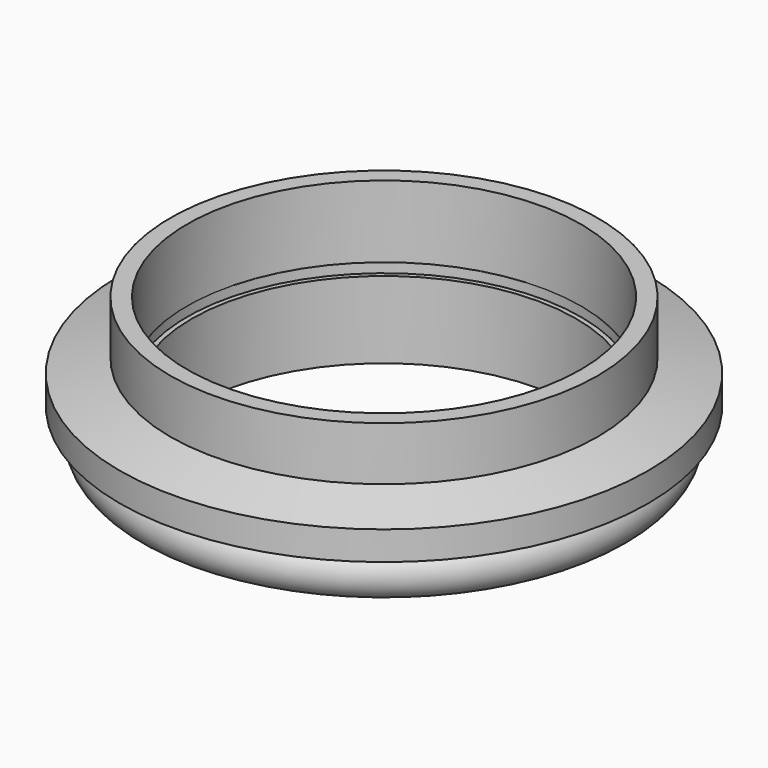
from build123d import *

# Parameters (mm, degrees)
CYLINDER003_R     = 20.5
CYLINDER003_DEPTH = 10
CYLINDER002_R     = 20.6
CYLINDER002_DEPTH = 2.5
CYLINDER_R        = 27.5
CYLINDER_DEPTH    = 3
CYLINDER001_R     = 22.25
CYLINDER001_DEPTH = 10
TORUS_R           = 2.5
CYLINDER005_R     = 20
CYLINDER005_DEPTH = 8
TORUS001_R        = 2.5
CYLINDER004_R     = 20.5
CYLINDER004_DEPTH = 8
CYLINDER006_R     = 24
CYLINDER006_DEPTH = 3.9


with BuildPart() as cylinder003:
    # Cylinder003 → Cylinder003 (new body)
    with BuildSketch(Plane.XY):
        Circle(CYLINDER003_R)
    extrude(amount=CYLINDER003_DEPTH)


with BuildPart() as fusion001:
    # Cylinder002 → Cylinder002 (new body)
    with BuildSketch(Plane.XY):
        Circle(CYLINDER002_R)
    extrude(amount=CYLINDER002_DEPTH)

    # Fusion001: union Cylinder003
    add(cylinder003.part)


with BuildPart() as cylinder:
    # Cylinder → Cylinder (new body)
    with BuildSketch(Plane.XY):
        Circle(CYLINDER_R)
    extrude(amount=CYLINDER_DEPTH)


with BuildPart() as cone:
    # Cone → Cone (revolve)
    with BuildSketch(Plane(origin=(0, 0, 3), x_dir=(1, 0, 0), z_dir=(0, -1, 0))):
        Polygon((0, 0), (27.5, 0), (22.25, 1.406733), (0, 1.406733), align=None)
    revolve(axis=Axis((0, 0, 3), (0, 0, 1)))


with BuildPart() as coupler:
    # Cylinder001 → Cylinder001 (new body)
    with BuildSketch(Plane.XY):
        Circle(CYLINDER001_R)
    extrude(amount=CYLINDER001_DEPTH)

    # Fusion: union Cylinder, Cone
    add(cylinder.part)
    add(cone.part)

    # Cut: cut Fusion001
    add(fusion001.part, mode=Mode.SUBTRACT)


with BuildPart() as oring:
    # Torus → Torus (revolve)
    with BuildSketch(Plane(origin=(0, 0, -2.5), x_dir=(1, 0, 0), z_dir=(0, -1, 0))):
        with Locations((23.5, 0)):
            Circle(TORUS_R)
    revolve(axis=Axis((0, 0, -2.5), (0, 0, 1)))


with BuildPart() as cylinder005:
    # Cylinder005 → Cylinder005 (new body)
    with BuildSketch(Plane.XY):
        Circle(CYLINDER005_R)
    extrude(amount=CYLINDER005_DEPTH)


with BuildPart() as oring001:
    # Torus001 → Torus001 (revolve)
    with BuildSketch(Plane(origin=(0, 0, 4), x_dir=(1, 0, 0), z_dir=(0, -1, 0))):
        with Locations((24, 0)):
            Circle(TORUS001_R)
    revolve(axis=Axis((0, 0, 4), (0, 0, 1)))


with BuildPart() as cylinder004:
    # Cylinder004 → Cylinder004 (new body)
    with BuildSketch(Plane.XY):
        Circle(CYLINDER004_R)
    extrude(amount=CYLINDER004_DEPTH)


with BuildPart() as oringcarrier:
    # Cylinder006 → Cylinder006 (new body)
    with BuildSketch(Plane.XY.offset(2.05)):
        Circle(CYLINDER006_R)
    extrude(amount=CYLINDER006_DEPTH)

    # Fusion002: union Cylinder004
    add(cylinder004.part)

    # Cut001: cut ORing001
    add(oring001.part, mode=Mode.SUBTRACT)

    # Cut002: cut Cylinder005
    add(cylinder005.part, mode=Mode.SUBTRACT)


with BuildPart() as oringcarrier_1:
    # Cut002 placement: moved
    add(oringcarrier.part.moved(Location((0, 0, -6.5))))


solid = Compound([coupler.part, oring.part, oringcarrier_1.part])
